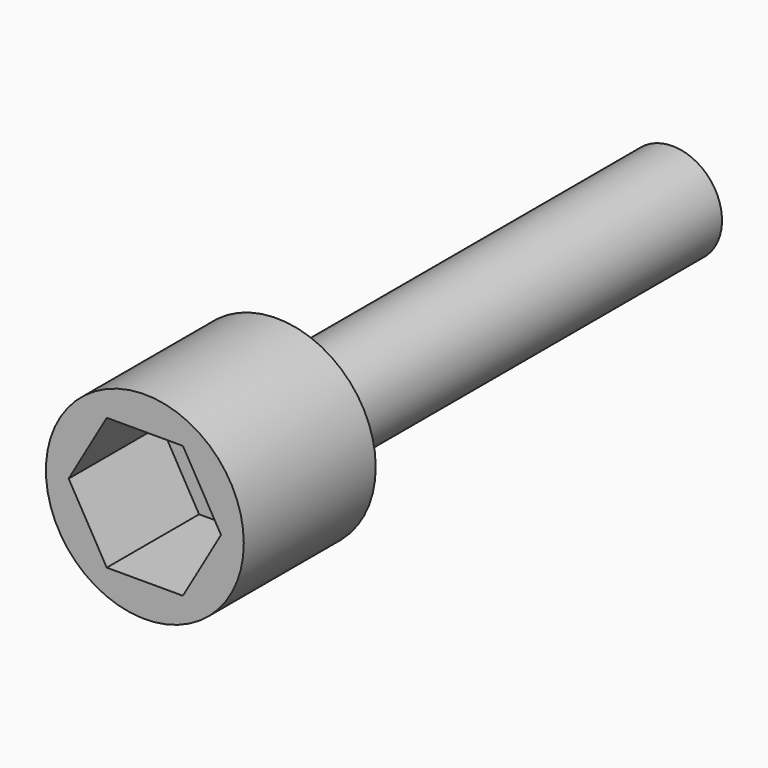
from build123d import *

# Parameters (mm, degrees)
F0_R     = 3
F1_DEPTH = 5
F3_DEPTH = 3.5
F4_R     = 1.5
F5_DEPTH = 15


with BuildPart() as f1:
    # F0 (on Front) → F1 (new body)
    with BuildSketch(Plane.XZ):
        Circle(F0_R)
    extrude(amount=F1_DEPTH)

    # F2 (on face) → F3 (cut)
    with BuildSketch(Plane.XZ.offset(5)):
        Polygon((1.154701, 2), (-1.154701, 2), (-2.309401, 0), (-1.154701, -2), (1.154701, -2), (2.309401, 0), align=None)
    extrude(amount=-F3_DEPTH, mode=Mode.SUBTRACT)

    # F4 (on face) → F5 (join)
    with BuildSketch(Plane(origin=(0, 0, 0), x_dir=(-1, 0, 0), z_dir=(0, 1, 0))):
        Circle(F4_R)
    extrude(amount=F5_DEPTH)


solid = f1.part
